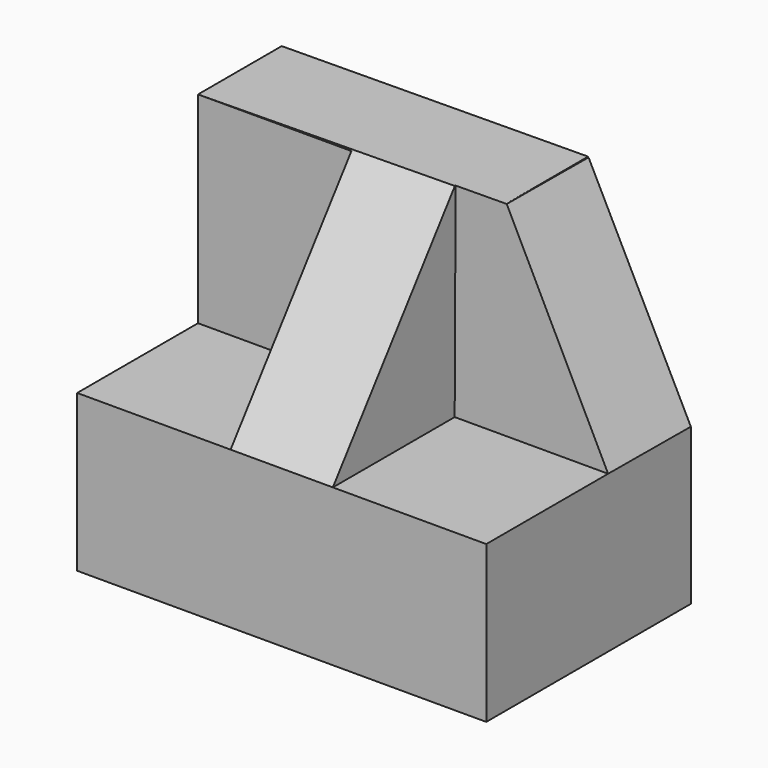
from build123d import *

# Parameters (mm, degrees)
F1_DEPTH  = 31.75
F3_DEPTH  = 50.801
F5_DEPTH  = 19.05
F7_DEPTH  = 19.05
F10_DEPTH = 25.4


with BuildPart() as f1:
    # F0 (on Front) → F1 (new body)
    with BuildSketch(Plane.XZ):
        Polygon((-15.0988876544, 54.272421198), (-65.8988876544, 53.8816550068), (-65.8988876544, 9.4316550068), (-15.0988876544, 9.4316550068), align=None)
    extrude(amount=F1_DEPTH)

    # F2 (on face) → F3 (cut, through all)
    with BuildSketch(Plane.YZ.offset(-15.0988876544)):
        Polygon((-12.7, 54.272421198), (-31.75, 54.272421198), (-31.75, 28.872421198), align=None)
    extrude(amount=-F3_DEPTH, mode=Mode.SUBTRACT)

    # F4 (on face) → F5 (cut)
    with BuildSketch(Plane.YZ.offset(-15.0988876544)):
        Polygon((-12.7, 54.272421198), (-31.75, 28.872421198), (-12.8411110491, 28.872421198), align=None)
    extrude(amount=-F5_DEPTH, mode=Mode.SUBTRACT)

    # F6 (on face) → F7 (cut)
    with BuildSketch(Plane(origin=(-65.8988876544, 0, 0), x_dir=(0, -1, 0), z_dir=(-1, 0, 0))):
        Polygon((31.75, 28.872421198), (12.9930746434, 53.8816550068), (12.9930746434, 28.872421198), align=None)
    extrude(amount=-F7_DEPTH, mode=Mode.SUBTRACT)

    # F8 (on face) + F9 (on face) → F10 (cut)
    with BuildSketch(Plane(origin=(0, -13.00111205, 0.0722283685), x_dir=(1, 0, 0), z_dir=(0, -0.9999845683, 0.0055554674))):
        Polygon((-15.0988876544, 28.800637273), (-15.0988876544, 54.201029245), (-27.7985119257, 54.1033390799), align=None)
    with BuildSketch(Plane(origin=(-0.4183455733, 0, 54.3853475663), x_dir=(0.999970416, 0, 0.0076920203), z_dir=(-0.0076920203, 0, 0.999970416))):
        Polygon((-27.4383474236, 0), (-27.4378046857, -12.700545143), (-14.6809764035, -12.7), (-14.6809764035, 0), align=None)
    extrude(amount=-F10_DEPTH, dir=(0, -0.9999845683, 0.0055554674), mode=Mode.SUBTRACT)


solid = f1.part
